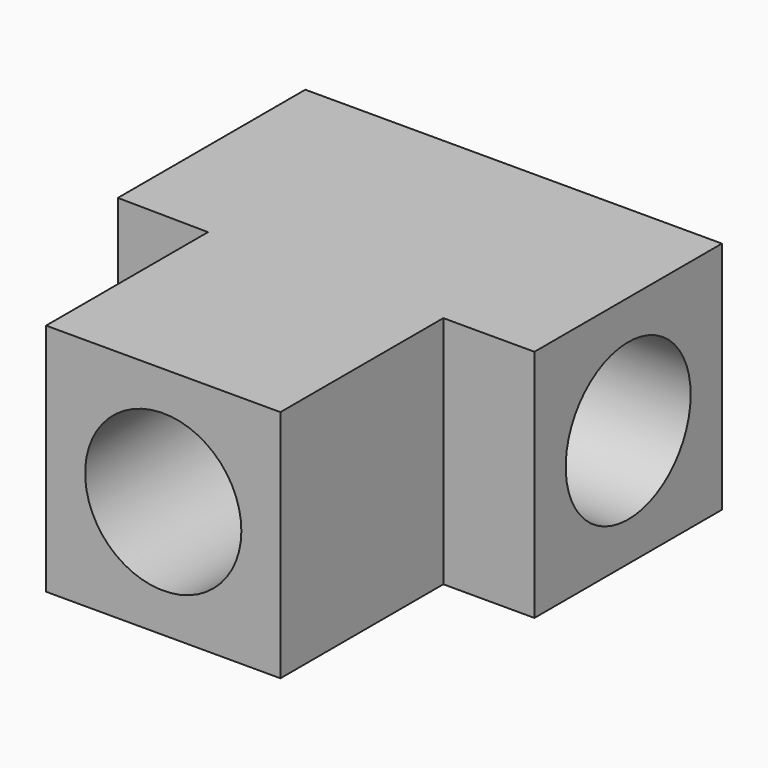
from build123d import *

# Parameters (mm, degrees)
F1_DEPTH = 9
F3_R     = 3
F4_DEPTH = 16
F2_R     = 3
F5_DEPTH = 15.325


with BuildPart() as f1:
    # F0 (on Top) → F1 (new body)
    with BuildSketch(Plane.XY):
        Polygon((8, 13.089484), (0, 13.089484), (-8, 13.089484), (-8, 4.089484), (-4.5, 4.041417), (-4.5, -3.731445), (0, -3.731445), (4.5, -3.731445), (4.5, 4.089484), (8, 4.089484), align=None)
    extrude(amount=F1_DEPTH)

    # F3 (on face) → F4 (cut)
    with BuildSketch(Plane.YZ.offset(8)):
        with Locations((8.589484, 4.5)):
            Circle(F3_R)
    extrude(amount=-F4_DEPTH, mode=Mode.SUBTRACT)

    # F2 (on face) → F5 (cut)
    with BuildSketch(Plane.XZ.offset(3.731445)):
        with Locations((0, 4.5)):
            Circle(F2_R)
    extrude(amount=-F5_DEPTH, mode=Mode.SUBTRACT)


solid = f1.part
